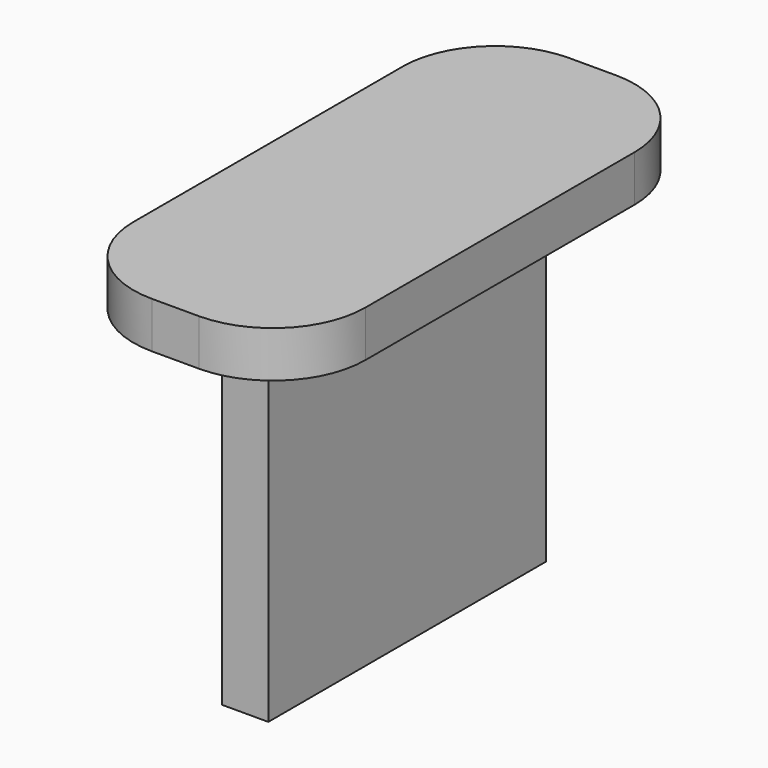
from build123d import *

# Parameters (mm, degrees)
SKETCH_W     = 2
SKETCH_H     = 15
PAD_DEPTH    = 15
PAD001_DEPTH = 2


with BuildPart() as part:
    # Sketch → Pad (new body)
    with BuildSketch(Plane.XY):
        with Locations((1, 7.5)):
            Rectangle(SKETCH_W, SKETCH_H)
    extrude(amount=PAD_DEPTH)

    # Sketch001 → Pad001 (join)
    with BuildSketch(Plane.XY.offset(15)):
        with BuildLine():
            Line((0, 18.76349), (2.029385, 18.76349))
            ThreePointArc((6.029385, 14.76349), (4.857812, 17.591917), (2.029385, 18.76349))
            Line((6.029385, 14.76349), (6.029385, 0.208627))
            ThreePointArc((2.029385, -3.791373), (4.857812, -2.6198), (6.029385, 0.208627))
            Line((2.029385, -3.791373), (0, -3.791373))
            ThreePointArc((-4, 0.208627), (-2.828427, -2.6198), (0, -3.791373))
            Line((-4, 0.208627), (-4, 14.76349))
            ThreePointArc((0, 18.76349), (-2.828427, 17.591917), (-4, 14.76349))
        make_face()
    extrude(amount=PAD001_DEPTH)


solid = part.part
